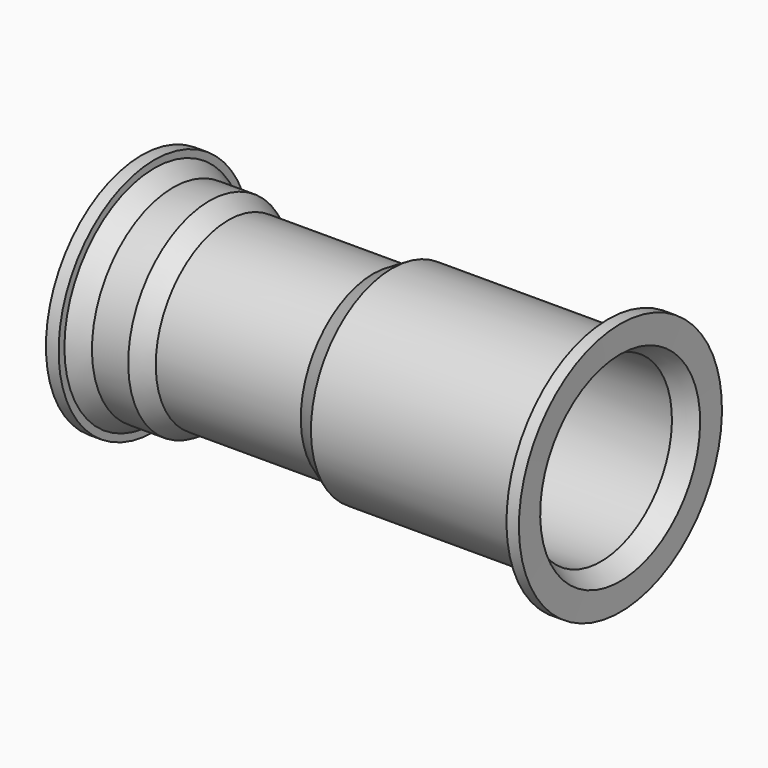
from build123d import *


with BuildPart() as f1:
    # F0 (on Front) → F1 (revolve)
    with BuildSketch(Plane.XZ):
        Polygon((-105.55408, 62), (-105.55408, 66), (-112.55408, 66), (-112.55408, 57.958548), (-97.03742, 49), (-77.03742, 49), (-66.645115, 43), (17.106174, 43), (27.498479, 49), (140.737355, 49), (151.378544, 55.143693), (151.532518, 70), (144.673228, 70), (144.673228, 66), (144.673228, 59.355281), (138.86171, 56), (25.622834, 56), (15.23053, 50), (-64.76947, 50), (-75.161775, 56), (-95.161775, 56), align=None)
    revolve(axis=Axis((50.378699, 0, 0), (1, 0, 0)))


solid = f1.part
